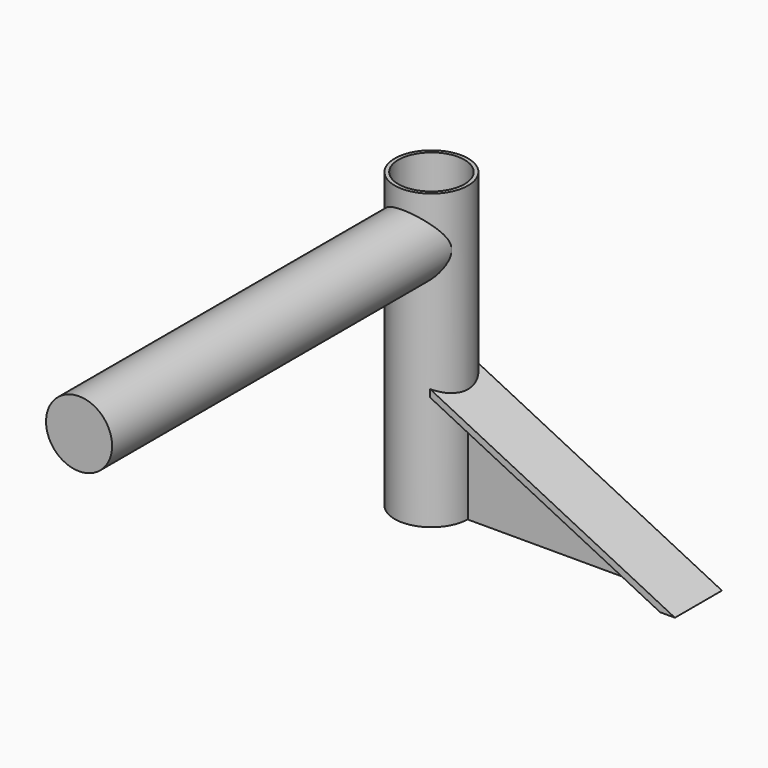
from build123d import *

# Parameters (mm, degrees)
F0_R     = 6.35
F0_R_2   = 5.715
F1_DEPTH = 50.8
F2_R     = 5.715
F3_DEPTH = 76.2
F5_DEPTH = 5.08
F7_DEPTH = 0.127


with BuildPart() as f1:
    # F0 (on Top) → F1 (new body)
    with BuildSketch(Plane.XY):
        Circle(F0_R)
        Circle(F0_R_2, mode=Mode.SUBTRACT)
    extrude(amount=F1_DEPTH)

    # F2 (on Front) → F3 (join)
    with BuildSketch(Plane.XZ):
        with Locations((0, 41.91)):
            Circle(F2_R)
    extrude(amount=F3_DEPTH)

    # F4 (on Front) → F5 (join, symmetric)
    with BuildSketch(Plane.XZ):
        Polygon((46.1834855378, 0), (0, 22.9420270771), (0, 21.6720270771), (43.6269099381, 0), align=None)
    extrude(amount=F5_DEPTH, both=True)


with BuildPart() as f7:
    # F6 (on Front) → F7 (new body, symmetric)
    with BuildSketch(Plane.XZ):
        Polygon((43.384578079, 0), (6.4489128999, 18.3588717035), (6.4489128999, 0), align=None)
    extrude(amount=F7_DEPTH, both=True)


solid = Compound([f1.part, f7.part])
